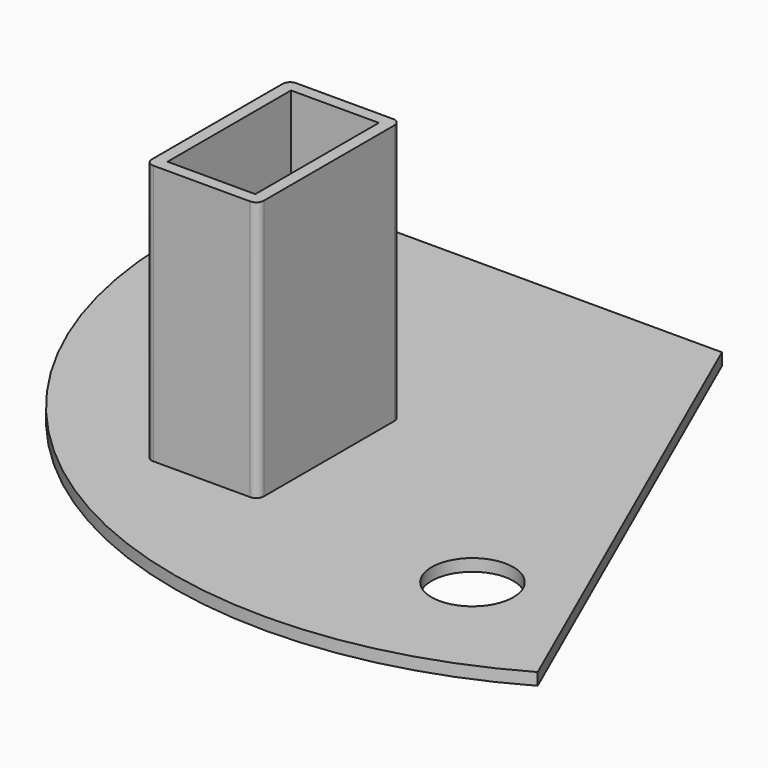
from build123d import *

# Parameters (mm, degrees)
F0_R     = 2.7
F1_DEPTH = 0.8
F2_DEPTH = 18


with BuildPart() as f1:
    # F0 (on Top) → F1 (new body)
    with BuildSketch(Plane.XY):
        with BuildLine():
            Line((0, 7.8000635883), (-28.9682413691, 7.8000635883))
            ThreePointArc((-28.9682413691, 7.8000635883), (-18.3237536434, -23.7537376515), (14.8986014601, -26.039041352))
            Line((14.8986014601, -26.039041352), (0, 7.8000635883))
        make_face()
        with BuildLine():
            ThreePointArc((-12.1491924488, -20.0414806604), (-21.498500667, -14.3396032985), (-12.4026846013, -8.2414806604))
            Line((-12.4026846013, -8.2414806604), (-8.8949958324, -8.2414806604))
            ThreePointArc((-8.8949958324, -8.2414806604), (-8.5414424419, -8.3879272698), (-8.3949958324, -8.7414806604))
            Line((-8.3949958324, -8.7414806604), (-8.3949958324, -19.5414806604))
            ThreePointArc((-8.3949958324, -19.5414806604), (-8.5414424419, -19.895034051), (-8.8949958324, -20.0414806604))
            Line((-8.8949958324, -20.0414806604), (-12.1491924488, -20.0414806604))
        make_face(mode=Mode.SUBTRACT)
        with Locations((6, -20.3)):
            Circle(F0_R, mode=Mode.SUBTRACT)
        with Locations((-21, 2.5)):
            Circle(F0_R, mode=Mode.SUBTRACT)
        with BuildLine():
            Line((-15.2949958324, -8.2414806604), (-12.4026846013, -8.2414806604))
            ThreePointArc((-12.4026846013, -8.2414806604), (-21.498500667, -14.3396032985), (-12.1491924488, -20.0414806604))
            Line((-12.1491924488, -20.0414806604), (-15.2949958324, -20.0414806604))
            ThreePointArc((-15.2949958324, -20.0414806604), (-15.648549223, -19.895034051), (-15.7949958324, -19.5414806604))
            Line((-15.7949958324, -19.5414806604), (-15.7949958324, -8.7414806604))
            ThreePointArc((-15.7949958324, -8.7414806604), (-15.648549223, -8.3879272698), (-15.2949958324, -8.2414806604))
        make_face()
        with BuildLine():
            Line((-14.9949958324, -9.0414806604), (-11.0452966959, -9.0414806604))
            ThreePointArc((-11.0452966959, -9.0414806604), (-11.6996610371, -8.6001997598), (-12.4026846013, -8.2414806604))
            Line((-12.4026846013, -8.2414806604), (-15.2949958324, -8.2414806604))
            ThreePointArc((-15.2949958324, -8.2414806604), (-15.648549223, -8.3879272698), (-15.7949958324, -8.7414806604))
            Line((-15.7949958324, -8.7414806604), (-15.7949958324, -19.5414806604))
            ThreePointArc((-15.7949958324, -19.5414806604), (-15.648549223, -19.895034051), (-15.2949958324, -20.0414806604))
            Line((-15.2949958324, -20.0414806604), (-12.1491924488, -20.0414806604))
            ThreePointArc((-12.1491924488, -20.0414806604), (-11.5002316606, -19.6773736015), (-10.897138468, -19.2414806604))
            Line((-10.897138468, -19.2414806604), (-14.9949958324, -19.2414806604))
            Line((-14.9949958324, -19.2414806604), (-14.9949958324, -9.0414806604))
        make_face()
        with BuildLine():
            ThreePointArc((-9.1949958324, -11.275632271), (-8.6761353948, -12.6970906696), (-8.5, -14.2))
            ThreePointArc((-8.5, -14.2), (-8.6761353948, -15.7029093304), (-9.1949958324, -17.124367729))
            Line((-9.1949958324, -17.124367729), (-9.1949958324, -19.2414806604))
            Line((-9.1949958324, -19.2414806604), (-10.897138468, -19.2414806604))
            ThreePointArc((-10.897138468, -19.2414806604), (-11.5002316606, -19.6773736015), (-12.1491924488, -20.0414806604))
            Line((-12.1491924488, -20.0414806604), (-8.8949958324, -20.0414806604))
            ThreePointArc((-8.8949958324, -20.0414806604), (-8.5414424419, -19.895034051), (-8.3949958324, -19.5414806604))
            Line((-8.3949958324, -19.5414806604), (-8.3949958324, -8.7414806604))
            ThreePointArc((-8.3949958324, -8.7414806604), (-8.5414424419, -8.3879272698), (-8.8949958324, -8.2414806604))
            Line((-8.8949958324, -8.2414806604), (-12.4026846013, -8.2414806604))
            ThreePointArc((-12.4026846013, -8.2414806604), (-11.6996610371, -8.6001997598), (-11.0452966959, -9.0414806604))
            Line((-11.0452966959, -9.0414806604), (-9.1949958324, -9.0414806604))
            Line((-9.1949958324, -9.0414806604), (-9.1949958324, -11.275632271))
        make_face()
        with BuildLine():
            ThreePointArc((-11.0452966959, -9.0414806604), (-9.9939206121, -10.0540177084), (-9.1949958324, -11.275632271))
            Line((-9.1949958324, -11.275632271), (-9.1949958324, -9.0414806604))
            Line((-9.1949958324, -9.0414806604), (-11.0452966959, -9.0414806604))
        make_face()
        with BuildLine():
            ThreePointArc((-9.1949958324, -17.124367729), (-8.6761353948, -15.7029093304), (-8.5, -14.2))
            ThreePointArc((-8.5, -14.2), (-8.6761353948, -12.6970906696), (-9.1949958324, -11.275632271))
            Line((-9.1949958324, -11.275632271), (-9.1949958324, -17.124367729))
        make_face()
        with BuildLine():
            Line((-9.1949958324, -19.2414806604), (-9.1949958324, -17.124367729))
            ThreePointArc((-9.1949958324, -17.124367729), (-9.9342332791, -18.2728377735), (-10.897138468, -19.2414806604))
            Line((-10.897138468, -19.2414806604), (-9.1949958324, -19.2414806604))
        make_face()
    extrude(amount=F1_DEPTH)


with BuildPart() as f2:
    # F0 (on Top) → F2 (new body)
    with BuildSketch(Plane.XY):
        with BuildLine():
            Line((-14.9949958324, -9.0414806604), (-11.0452966959, -9.0414806604))
            ThreePointArc((-11.0452966959, -9.0414806604), (-11.6996610371, -8.6001997598), (-12.4026846013, -8.2414806604))
            Line((-12.4026846013, -8.2414806604), (-15.2949958324, -8.2414806604))
            ThreePointArc((-15.2949958324, -8.2414806604), (-15.648549223, -8.3879272698), (-15.7949958324, -8.7414806604))
            Line((-15.7949958324, -8.7414806604), (-15.7949958324, -19.5414806604))
            ThreePointArc((-15.7949958324, -19.5414806604), (-15.648549223, -19.895034051), (-15.2949958324, -20.0414806604))
            Line((-15.2949958324, -20.0414806604), (-12.1491924488, -20.0414806604))
            ThreePointArc((-12.1491924488, -20.0414806604), (-11.5002316606, -19.6773736015), (-10.897138468, -19.2414806604))
            Line((-10.897138468, -19.2414806604), (-14.9949958324, -19.2414806604))
            Line((-14.9949958324, -19.2414806604), (-14.9949958324, -9.0414806604))
        make_face()
        with BuildLine():
            ThreePointArc((-9.1949958324, -11.275632271), (-8.6761353948, -12.6970906696), (-8.5, -14.2))
            ThreePointArc((-8.5, -14.2), (-8.6761353948, -15.7029093304), (-9.1949958324, -17.124367729))
            Line((-9.1949958324, -17.124367729), (-9.1949958324, -19.2414806604))
            Line((-9.1949958324, -19.2414806604), (-10.897138468, -19.2414806604))
            ThreePointArc((-10.897138468, -19.2414806604), (-11.5002316606, -19.6773736015), (-12.1491924488, -20.0414806604))
            Line((-12.1491924488, -20.0414806604), (-8.8949958324, -20.0414806604))
            ThreePointArc((-8.8949958324, -20.0414806604), (-8.5414424419, -19.895034051), (-8.3949958324, -19.5414806604))
            Line((-8.3949958324, -19.5414806604), (-8.3949958324, -8.7414806604))
            ThreePointArc((-8.3949958324, -8.7414806604), (-8.5414424419, -8.3879272698), (-8.8949958324, -8.2414806604))
            Line((-8.8949958324, -8.2414806604), (-12.4026846013, -8.2414806604))
            ThreePointArc((-12.4026846013, -8.2414806604), (-11.6996610371, -8.6001997598), (-11.0452966959, -9.0414806604))
            Line((-11.0452966959, -9.0414806604), (-9.1949958324, -9.0414806604))
            Line((-9.1949958324, -9.0414806604), (-9.1949958324, -11.275632271))
        make_face()
        with BuildLine():
            ThreePointArc((-9.1949958324, -17.124367729), (-8.6761353948, -15.7029093304), (-8.5, -14.2))
            ThreePointArc((-8.5, -14.2), (-8.6761353948, -12.6970906696), (-9.1949958324, -11.275632271))
            Line((-9.1949958324, -11.275632271), (-9.1949958324, -17.124367729))
        make_face()
    extrude(amount=F2_DEPTH)


solid = Compound([f1.part, f2.part])
